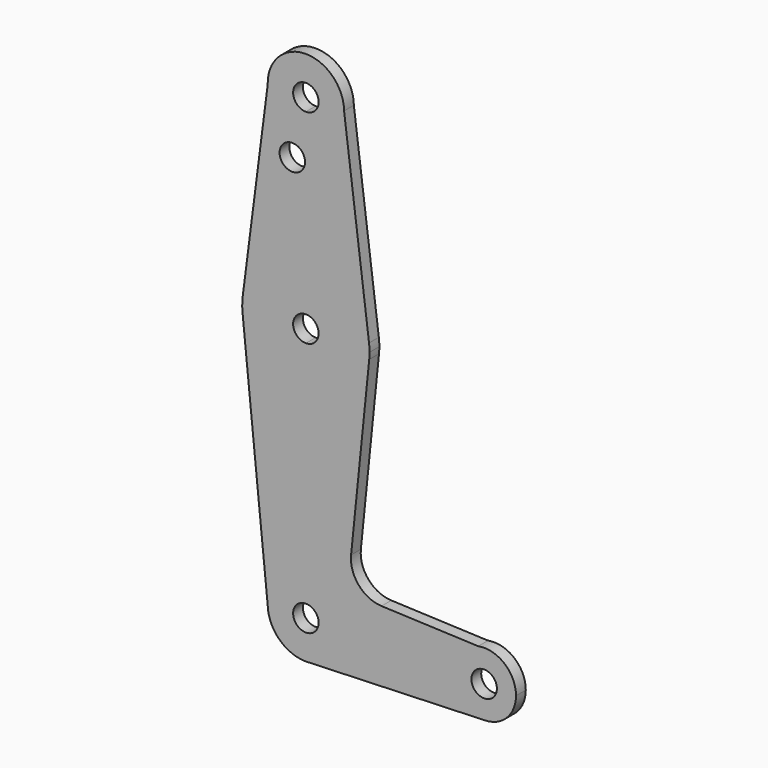
from build123d import *

# Parameters (mm, degrees)
F0_R     = 3.175
F1_DEPTH = 3.048


with BuildPart() as f1:
    # F0 (on Front) → F1 (new body)
    with BuildSketch(Plane.XZ):
        with BuildLine():
            ThreePointArc((-9.5199535325, 56.2173692119), (-6.624678309, 49.6834633597), (0, 47.0023849184))
            ThreePointArc((0, 47.0023849184), (6.7351920908, 49.7921928276), (9.525, 56.5273849184))
            ThreePointArc((9.525, 56.5273849184), (9.524852896, 56.5803217588), (9.5244115886, 56.633256964))
            ThreePointArc((9.5244115886, 56.633256964), (-0.2079558226, 66.0501145364), (-9.5199535325, 56.2173692119))
        make_face()
        with BuildLine():
            ThreePointArc((3.175, 56.5273849184), (2.2450640303, 54.2823208882), (0, 53.3523849184))
            ThreePointArc((0, 53.3523849184), (-2.2450640303, 58.7724489487), (3.175, 56.5273849184))
        make_face(mode=Mode.SUBTRACT)
        with BuildLine():
            ThreePointArc((9.525, 56.5273849184), (6.7351920908, 49.7921928276), (0, 47.0023849184))
            Line((0, 47.0023849184), (0, 42.2525849184))
            Line((0, 42.2525849184), (0, 21.6023849184))
            ThreePointArc((0, 21.6023849184), (10.4928308118, 17.6402404348), (15.7479782575, 7.7315819646))
            Line((15.7479782575, 7.7315819646), (9.5244115886, 56.633256964))
            ThreePointArc((9.5244115886, 56.633256964), (9.524852896, 56.5803217588), (9.525, 56.5273849184))
        make_face()
        with BuildLine():
            Line((0, 42.2525849184), (0, 47.0023849184))
            ThreePointArc((0, 47.0023849184), (-6.624678309, 49.6834633597), (-9.5199535325, 56.2173692119))
            Line((-9.5199535325, 56.2173692119), (-15.7456331619, 7.7499232572))
            ThreePointArc((-15.7456331619, 7.7499232572), (-10.4858912085, 17.6463492428), (0, 21.6023849184))
            Line((0, 21.6023849184), (0, 42.2525849184))
        make_face()
        with Locations((-3.3828, 42.2525849184)):
            Circle(F0_R, mode=Mode.SUBTRACT)
        with BuildLine():
            ThreePointArc((15.7479782575, 7.7315819646), (10.4928308118, 17.6402404348), (0, 21.6023849184))
            Line((0, 21.6023849184), (0, 8.9023849184))
            ThreePointArc((0, 8.9023849184), (2.2450640303, 7.9724489487), (3.175, 5.7273849184))
            ThreePointArc((3.175, 5.7273849184), (2.2450640303, 3.4823208882), (0, 2.5523849184))
            Line((0, 2.5523849184), (0, -10.1476150816))
            ThreePointArc((0, -10.1476150816), (10.641314318, -6.0530248615), (15.7932652931, 4.118535522))
            ThreePointArc((15.7932652931, 4.118535522), (15.8545531556, 4.9219227929), (15.875, 5.7273849184))
            ThreePointArc((15.875, 5.7273849184), (15.8432127398, 6.7314940165), (15.7479782575, 7.7315819646))
        make_face()
        with BuildLine():
            Line((0, 8.9023849184), (0, 21.6023849184))
            ThreePointArc((0, 21.6023849184), (-10.4858912085, 17.6463492428), (-15.7456331619, 7.7499232572))
            ThreePointArc((-15.7456331619, 7.7499232572), (-15.8735325178, 5.9432330247), (-15.7948060726, 4.133733097))
            ThreePointArc((-15.7948060726, 4.133733097), (-10.6469808475, -6.0479037758), (0, -10.1476150816))
            Line((0, -10.1476150816), (0, 2.5523849184))
            ThreePointArc((0, 2.5523849184), (-3.175, 5.7273849184), (0, 8.9023849184))
        make_face()
        with BuildLine():
            ThreePointArc((0, -10.1476150816), (-10.6469808475, -6.0479037758), (-15.7948060726, 4.133733097))
            Line((-15.7948060726, 4.133733097), (-9.5210882697, -58.0455677519))
            ThreePointArc((-9.5210882697, -58.0455677519), (-6.8310138042, -51.1346277806), (0, -48.2476150816))
            Line((0, -48.2476150816), (0, -10.1476150816))
        make_face()
        with BuildLine():
            ThreePointArc((15.7932652931, 4.118535522), (10.641314318, -6.0530248615), (0, -10.1476150816))
            Line((0, -10.1476150816), (0, -48.2476150816))
            ThreePointArc((0, -48.2476150816), (6.7351920908, -51.0374229908), (9.525, -57.7726150816))
            Line((9.525, -57.7726150816), (36.5125, -57.7726150816))
            ThreePointArc((36.5125, -57.7726150816), (38.3358612504, -52.7108749064), (42.9682388601, -49.9746480276))
            Line((42.9682388601, -49.9746480276), (18.8618230574, -49.0013794061))
            ThreePointArc((18.8618230574, -49.0013794061), (13.1765995625, -46.2667140454), (11.2732746299, -40.2519393178))
            Line((11.2732746299, -40.2519393178), (15.7932652931, 4.118535522))
        make_face()
        with BuildLine():
            ThreePointArc((0, -48.2476150816), (-6.8310138042, -51.1346277806), (-9.5210882697, -58.0455677519))
            ThreePointArc((-9.5210882697, -58.0455677519), (-6.6379873009, -64.6036288857), (0, -67.2976150816))
            Line((0, -67.2976150816), (0.6773435479, -67.2735008675))
            ThreePointArc((0.6773435479, -67.2735008675), (6.9705567315, -64.2639141698), (9.525, -57.7726150816))
            Line((9.525, -57.7726150816), (3.175, -57.7726150816))
            ThreePointArc((3.175, -57.7726150816), (-2.2450640303, -60.0176791118), (0, -54.5976150816))
            Line((0, -54.5976150816), (0, -48.2476150816))
        make_face()
        with BuildLine():
            Line((0.6773435479, -67.2735008675), (0, -67.2976150816))
            ThreePointArc((0, -67.2976150816), (0.3388863295, -67.291584619), (0.6773435479, -67.2735008675))
        make_face()
        with BuildLine():
            Line((36.5125, -57.7726150816), (9.525, -57.7726150816))
            ThreePointArc((9.525, -57.7726150816), (6.9705567315, -64.2639141698), (0.6773435479, -67.2735008675))
            Line((0.6773435479, -67.2735008675), (44.7324052746, -65.7050896961))
            ThreePointArc((44.7324052746, -65.7050896961), (38.9380895153, -63.4842478655), (36.5125, -57.7726150816))
        make_face()
        with BuildLine():
            ThreePointArc((42.9682388601, -49.9746480276), (38.3358612504, -52.7108749064), (36.5125, -57.7726150816))
            ThreePointArc((36.5125, -57.7726150816), (38.9380895153, -63.4842478655), (44.7324052746, -65.7050896961))
            ThreePointArc((44.7324052746, -65.7050896961), (50.1616327839, -63.2845255663), (52.3875, -57.7726150816))
            ThreePointArc((52.3875, -57.7726150816), (49.5117401752, -51.658476332), (42.9682388601, -49.9746480276))
        make_face()
        with BuildLine():
            ThreePointArc((47.625, -57.7726150816), (44.45, -60.9476150816), (41.275, -57.7726150816))
            ThreePointArc((41.275, -57.7726150816), (44.45, -54.5976150816), (47.625, -57.7726150816))
        make_face(mode=Mode.SUBTRACT)
        with BuildLine():
            ThreePointArc((9.525, -57.7726150816), (6.7351920908, -51.0374229908), (0, -48.2476150816))
            Line((0, -48.2476150816), (0, -54.5976150816))
            ThreePointArc((0, -54.5976150816), (2.2450640303, -55.5275510513), (3.175, -57.7726150816))
            Line((3.175, -57.7726150816), (9.525, -57.7726150816))
        make_face()
    extrude(amount=F1_DEPTH)


solid = f1.part
